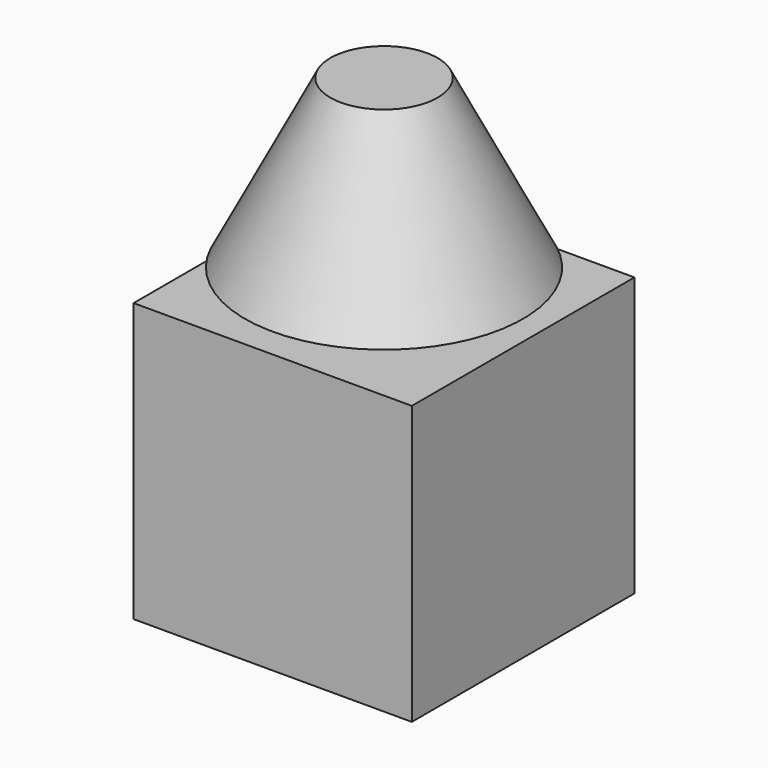
from build123d import *

# Parameters (mm, degrees)
F0_W     = 50
F0_H     = 50
F1_DEPTH = 25


with BuildPart() as f1:
    # F0 (on Top) → F1 (new body, symmetric)
    with BuildSketch(Plane.XY):
        Rectangle(F0_W, F0_H)
    extrude(amount=F1_DEPTH, both=True)


with BuildPart() as f4:
    # F3 (on Front) → F4 (revolve)
    with BuildSketch(Plane.XZ):
        Polygon((0, 28.604654), (0, 58.604654), (-9.651164, 58.604654), (-25, 28.604654), align=None)
    revolve(axis=Axis((0, 0, 19.298827), (0, 0, -1)))


solid = Compound([f1.part, f4.part])
